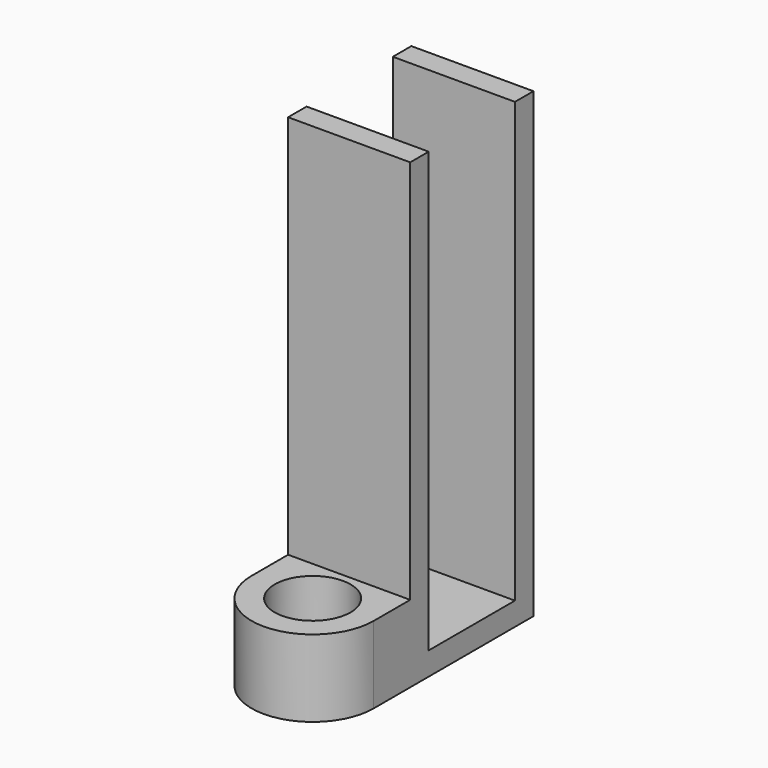
from build123d import *

# Parameters (mm, degrees)
F0_R     = 4.925
F0_W     = 15.85
F0_H     = 3
F0_H_2   = 14
F1_DEPTH = 3
F2_DEPTH = 60
F3_DEPTH = 10


with BuildPart() as f1:
    # F0 (on Top) → F1 (new body)
    with BuildSketch(Plane.XY):
        with BuildLine():
            Line((-7.925, 5.925), (-7.925, 0))
            ThreePointArc((-7.925, 0), (0, -7.925), (7.925, 0))
            Line((7.925, 0), (7.925, 5.925))
            Line((7.925, 5.925), (-7.925, 5.925))
        make_face()
        Circle(F0_R, mode=Mode.SUBTRACT)
        with Locations((0, 7.425)):
            Rectangle(F0_W, F0_H)
        with Locations((0, 15.925)):
            Rectangle(F0_W, F0_H_2)
        with Locations((0, 24.425)):
            Rectangle(F0_W, F0_H)
    extrude(amount=F1_DEPTH)

    # F0 (on Top) → F2 (join)
    with BuildSketch(Plane.XY):
        with Locations((0, 7.425)):
            Rectangle(F0_W, F0_H)
        with Locations((0, 24.425)):
            Rectangle(F0_W, F0_H)
    extrude(amount=F2_DEPTH)

    # F0 (on Top) → F3 (join)
    with BuildSketch(Plane.XY):
        with BuildLine():
            Line((-7.925, 5.925), (-7.925, 0))
            ThreePointArc((-7.925, 0), (0, -7.925), (7.925, 0))
            Line((7.925, 0), (7.925, 5.925))
            Line((7.925, 5.925), (-7.925, 5.925))
        make_face()
        Circle(F0_R, mode=Mode.SUBTRACT)
    extrude(amount=F3_DEPTH)


solid = f1.part
